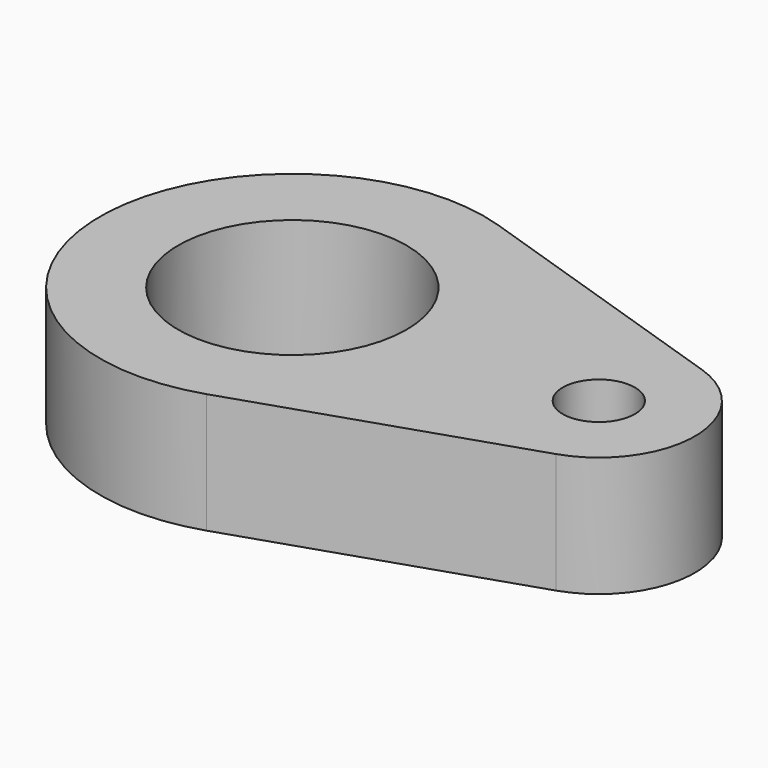
from build123d import *

# Parameters (mm, degrees)
F0_R     = 4.75
F0_R_2   = 1.5
F1_DEPTH = 5


with BuildPart() as f1:
    # F0 (on Top) → F1 (new body)
    with BuildSketch(Plane.XY):
        with BuildLine():
            ThreePointArc((8, 0), (6.483766, 4.686233), (2.509804, 7.59611))
            ThreePointArc((2.509804, 7.59611), (-8, 0), (2.509804, -7.59611))
            ThreePointArc((2.509804, -7.59611), (6.483766, -4.686233), (8, 0))
        make_face()
        Circle(F0_R, mode=Mode.SUBTRACT)
        with BuildLine():
            ThreePointArc((14.004902, -3.798055), (16.75, 0), (14.004902, 3.798055))
            Line((14.004902, 3.798055), (2.509804, 7.59611))
            ThreePointArc((2.509804, 7.59611), (6.483766, 4.686233), (8, 0))
            ThreePointArc((8, 0), (6.483766, -4.686233), (2.509804, -7.59611))
            Line((2.509804, -7.59611), (14.004902, -3.798055))
        make_face()
        with Locations((12.75, 0)):
            Circle(F0_R_2, mode=Mode.SUBTRACT)
        with BuildLine():
            ThreePointArc((14.004902, -3.798055), (16.75, 0), (14.004902, 3.798055))
            Line((14.004902, 3.798055), (2.509804, 7.59611))
            ThreePointArc((2.509804, 7.59611), (6.483766, 4.686233), (8, 0))
            ThreePointArc((8, 0), (6.483766, -4.686233), (2.509804, -7.59611))
            Line((2.509804, -7.59611), (14.004902, -3.798055))
        make_face()
        with Locations((12.75, 0)):
            Circle(F0_R_2, mode=Mode.SUBTRACT)
        with BuildLine():
            ThreePointArc((14.004902, -3.798055), (16.75, 0), (14.004902, 3.798055))
            Line((14.004902, 3.798055), (2.509804, 7.59611))
            ThreePointArc((2.509804, 7.59611), (6.483766, 4.686233), (8, 0))
            ThreePointArc((8, 0), (6.483766, -4.686233), (2.509804, -7.59611))
            Line((2.509804, -7.59611), (14.004902, -3.798055))
        make_face()
        with Locations((12.75, 0)):
            Circle(F0_R_2, mode=Mode.SUBTRACT)
        with BuildLine():
            ThreePointArc((14.004902, -3.798055), (16.75, 0), (14.004902, 3.798055))
            Line((14.004902, 3.798055), (2.509804, 7.59611))
            ThreePointArc((2.509804, 7.59611), (6.483766, 4.686233), (8, 0))
            ThreePointArc((8, 0), (6.483766, -4.686233), (2.509804, -7.59611))
            Line((2.509804, -7.59611), (14.004902, -3.798055))
        make_face()
        with Locations((12.75, 0)):
            Circle(F0_R_2, mode=Mode.SUBTRACT)
    extrude(amount=F1_DEPTH)


solid = f1.part
